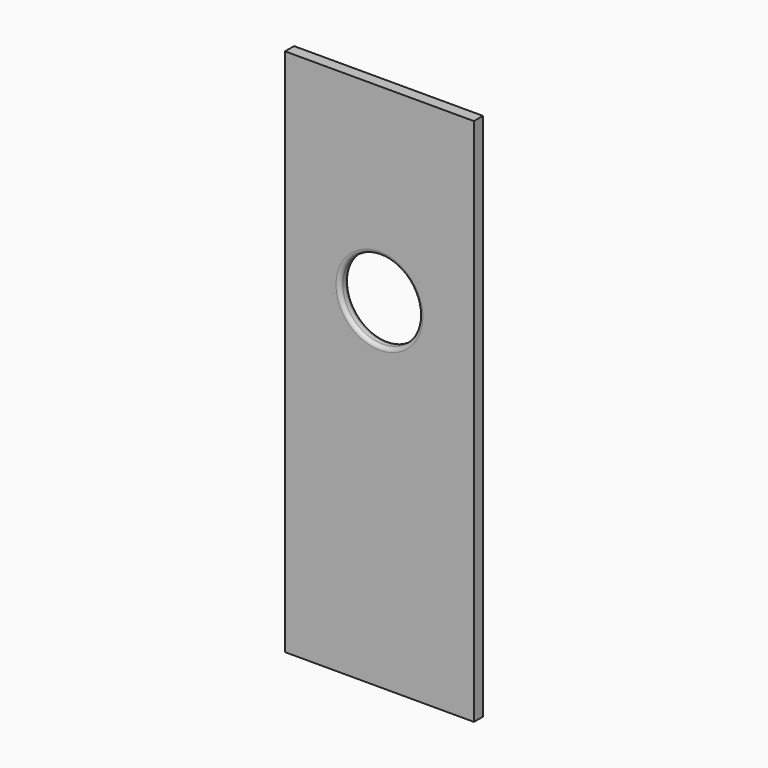
from build123d import *

# Parameters (mm, degrees)
F0_W     = 25
F0_H     = 70
F0_R     = 5.25
F1_DEPTH = 1.5
F2_R     = 0.5


with BuildPart() as f1:
    # F0 (on Front) → F1 (new body)
    with BuildSketch(Plane.XZ):
        Rectangle(F0_W, F0_H)
        with Locations((0, 10)):
            Circle(F0_R, mode=Mode.SUBTRACT)
    extrude(amount=F1_DEPTH)

    # F2
    f2_edges = [f1.edges().sort_by_distance(p)[0] for p in [
        (-5.25, 0, 10),
        (-5.25, -1.5, 10),
    ]]
    fillet(f2_edges, radius=F2_R)


solid = f1.part
